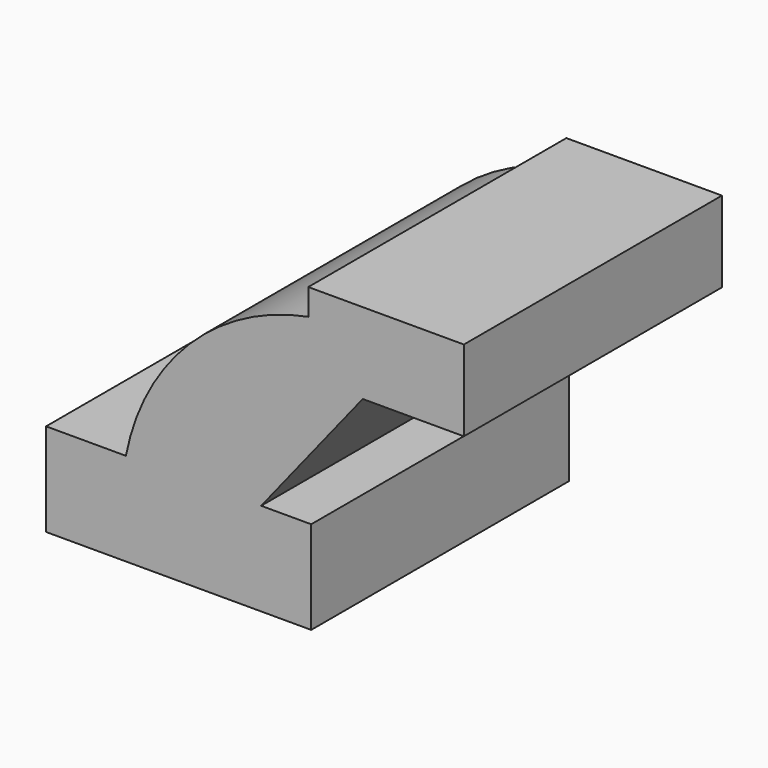
from build123d import *

# Parameters (mm, degrees)
F1_DEPTH = 63.5


with BuildPart() as f1:
    # F0 (on Front) → F1 (new body, symmetric)
    with BuildSketch(Plane.XZ):
        Polygon((-19.2303371431, -15.3589472175), (-50.6551377475, -15.3589472175), (-50.6551377475, -51.9808344543), (53.7343621254, -51.9808344543), (53.7343621254, -15.3589472175), (34.0322671564, -15.3589472175), align=None)
        with BuildLine():
            ThreePointArc((52.5824390352, 56.1911930548), (5.6945006761, 31.437982675), (-19.2303371431, -15.3589472175))
            Line((-19.2303371431, -15.3589472175), (34.0322671564, -15.3589472175))
            Line((34.0322671564, -15.3589472175), (74.0163222799, 34.6757471561))
            Line((74.0163222799, 34.6757471561), (52.5824390352, 34.6757471561))
            Line((52.5824390352, 34.6757471561), (52.5824390352, 56.1911930548))
        make_face()
        Polygon((52.5824390352, 66.5059909225), (52.5824390352, 56.1911930548), (52.5824390352, 34.6757471561), (74.0163222799, 34.6757471561), (113.847091794, 34.6757471561), (113.847091794, 66.5059909225), align=None)
    extrude(amount=F1_DEPTH, both=True)


solid = f1.part
